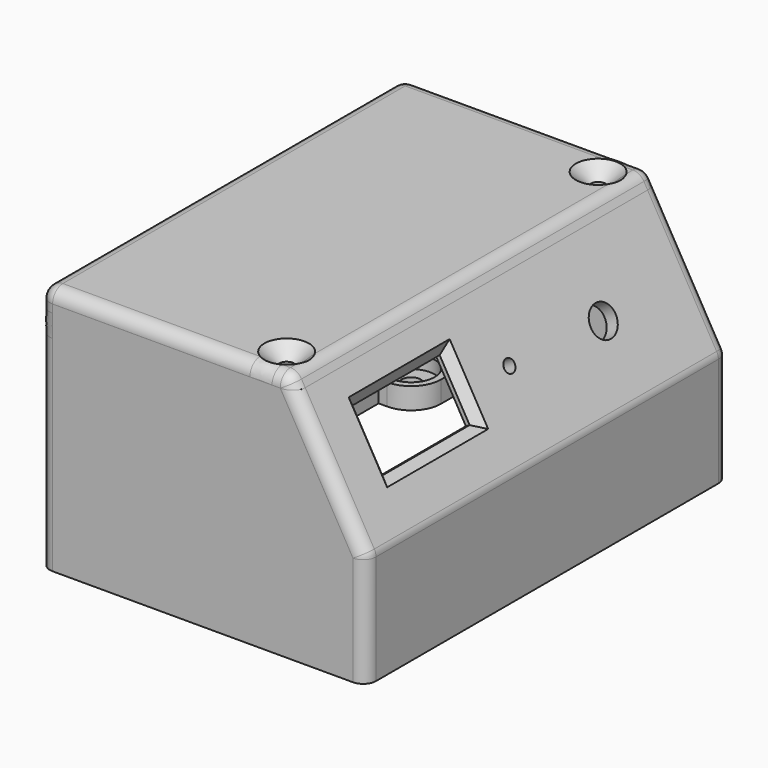
from build123d import *

# Parameters (mm, degrees)
SKETCH_W             = 73.2
SKETCH_H             = 55
PAD_DEPTH            = 53
SKETCH001_R          = 2.25
POCKET_DEPTH         = 55.001
SKETCH002_W          = 70.2
SKETCH002_H          = 100
POCKET001_DEPTH      = 50.001
SKETCH004_R          = 5.5
POCKET003_DEPTH      = 3
SKETCH005_W          = 7.2
SKETCH005_H          = 7.2
SKETCH005_R          = 1.5
PAD001_DEPTH         = 9
SKETCH006_R          = 1.75
PAD002_DEPTH         = 10
POCKET004_DEPTH      = 53.001
POCKET004_DEPTH_BACK = 53.001
PAD003_DEPTH         = 9
SKETCH008_R          = 1.75
POCKET005_DEPTH      = 12
FILLET_R             = 3
PAD004_DEPTH         = 53
PAD005_DEPTH         = 3
SKETCH011_R          = 3.6
SKETCH011_R_2        = 1.5
SKETCH011_W          = 14
SKETCH011_H          = 25.5
POCKET006_DEPTH      = 17.3215080757
SKETCH012_R          = 1.5
PAD006_DEPTH         = 2
FILLET001_R          = 2.99
CHAMFER_SIZE         = 2
PAD007_DEPTH         = 53
SKETCH014_R          = 1.75
POCKET007_DEPTH      = 3.001
POCKET007_DEPTH_BACK = 55.001
SKETCH015_R          = 1.75
POCKET008_DEPTH      = 3.001
CHAMFER001_SIZE2     = 2.99
CHAMFER001_SIZE      = 3.45
CHAMFER002_SIZE2     = 2.99
CHAMFER002_SIZE      = 3.45
FILLET002_R          = 2.99
SKETCH016_W          = 70
SKETCH016_H          = 18
POCKET009_DEPTH      = 3.0010001
SKETCH017_W          = 8
SKETCH017_H          = 25
SKETCH017_R          = 1.75
PAD008_DEPTH         = 9.5
POCKET010_DEPTH      = 1.5


with BuildPart() as body:
    # Sketch → Pad (new body, symmetric)
    with BuildSketch(Plane.XZ):
        with Locations((36.6, 27.5)):
            Rectangle(SKETCH_W, SKETCH_H)
    extrude(amount=PAD_DEPTH, both=True)

    # Sketch001 → Pocket (cut, through all)
    with BuildSketch(Plane.XY):
        with Locations((7, 43)):
            Circle(SKETCH001_R)
        with Locations((57.2, 43)):
            Circle(SKETCH001_R)
        with Locations((57.2, -43)):
            Circle(SKETCH001_R)
        with Locations((7, -43)):
            Circle(SKETCH001_R)
        with BuildLine():
            Line((5, 36), (7, 36))
            ThreePointArc((7, 36), (11.9497474683, 38.0502525317), (14, 43))
            Line((14, 43), (14, 50))
            Line((14, 50), (50.2, 50))
            Line((50.2, 50), (50.2, 43))
            ThreePointArc((50.2, 43), (52.2502525317, 38.0502525317), (57.2, 36))
            Line((57.2, 36), (70.2, 36))
            Line((70.2, 36), (70.2, -36))
            Line((70.2, -36), (57.2, -36))
            ThreePointArc((57.2, -36), (52.2502525317, -38.0502525317), (50.2, -43))
            Line((50.2, -43), (50.2, -50))
            Line((50.2, -50), (14, -50))
            Line((14, -50), (14, -43))
            ThreePointArc((14, -43), (11.9497474683, -38.0502525317), (7, -36))
            Line((7, -36), (5, -36))
            Line((5, -36), (5, 36))
        make_face()
    extrude(amount=POCKET_DEPTH, mode=Mode.SUBTRACT)

    # Sketch002 → Pocket001 (cut, through all)
    with BuildSketch(Plane.XY.offset(5)):
        with Locations((35.1, 0)):
            Rectangle(SKETCH002_W, SKETCH002_H)
    extrude(amount=POCKET001_DEPTH, mode=Mode.SUBTRACT)

    # Sketch004 → Pocket003 (cut)
    with BuildSketch(Plane.XY.offset(5)):
        with Locations((57.2, 43)):
            Circle(SKETCH004_R)
        with Locations((7, -43)):
            Circle(SKETCH004_R)
        with Locations((57.2, -43)):
            Circle(SKETCH004_R)
        with Locations((7, 43)):
            Circle(SKETCH004_R)
    extrude(amount=-POCKET003_DEPTH, mode=Mode.SUBTRACT)

    # Sketch005 → Pad001 (join)
    with BuildSketch(Plane.XY):
        with Locations((66.6, 46.4)):
            Rectangle(SKETCH005_W, SKETCH005_H)
        with Locations((66.6, 46.4)):
            Circle(SKETCH005_R, mode=Mode.SUBTRACT)
        with Locations((23.6, 46.4)):
            Rectangle(SKETCH005_W, SKETCH005_H)
        with Locations((23.6, 46.4)):
            Circle(SKETCH005_R, mode=Mode.SUBTRACT)
        with Locations((23.6, -46.4)):
            Rectangle(SKETCH005_W, SKETCH005_H)
        with Locations((23.6, -46.4)):
            Circle(SKETCH005_R, mode=Mode.SUBTRACT)
        with Locations((66.6, -46.4)):
            Rectangle(SKETCH005_W, SKETCH005_H)
        with Locations((66.6, -46.4)):
            Circle(SKETCH005_R, mode=Mode.SUBTRACT)
    extrude(amount=PAD001_DEPTH)

    # Sketch006 → Pad002 (join)
    with BuildSketch(Plane.YZ.offset(10)):
        Polygon((-50, 55), (-41, 55), (-41, 46), (-50, 30.4115427319), align=None)
        with Locations((-45.5, 50.5)):
            Circle(SKETCH006_R, mode=Mode.SUBTRACT)
        Polygon((41, 55), (50, 55), (50, 30.4115427319), (41, 46), align=None)
        with Locations((45.5, 50.5)):
            Circle(SKETCH006_R, mode=Mode.SUBTRACT)
    extrude(amount=PAD002_DEPTH)

    # Sketch003 → Pocket004 (cut, two sides)
    with BuildSketch(Plane.XZ) as pocket004_sk:
        Polygon((53.2, 55), (73.2, 55), (73.2, 25.5551362713), (70.2, 25.5551362713), align=None)
    extrude(amount=-POCKET004_DEPTH, mode=Mode.SUBTRACT)
    extrude(pocket004_sk.sketch, amount=POCKET004_DEPTH_BACK, mode=Mode.SUBTRACT)

    # Sketch007 → Pad003 (join)
    with BuildSketch(Plane.YZ.offset(53.2)):
        Polygon((-50, 55), (-41, 55), (-41, 45), (-50, 29.4115427324), align=None)
        Polygon((41, 55), (50, 55), (50, 29.4115427324), (41, 45), align=None)
    extrude(amount=-PAD003_DEPTH)

    # Sketch008 → Pocket005 (cut)
    with BuildSketch(Plane.XY.offset(55)):
        with Locations((48.7, 45.5)):
            Circle(SKETCH008_R)
        with Locations((48.7, -45.5)):
            Circle(SKETCH008_R)
    extrude(amount=-POCKET005_DEPTH, mode=Mode.SUBTRACT)

    # Fillet
    fillet_edges = [body.edges().sort_by_distance(p)[0] for p in [
        (73.2, -53, 12.777568),
        (73.2, 53, 12.777568),
    ]]
    fillet(fillet_edges, radius=FILLET_R)


with BuildPart() as body001:
    # Sketch009 → Pad004 (new body, symmetric)
    with BuildSketch(Plane.XZ):
        with BuildLine():
            Line((56.6641016151, 55), (72.7980762114, 27.0551362713))
            ThreePointArc((73.2, 25.5551362713), (73.0977774789, 26.3315934066), (72.7980762114, 27.0551362713))
            Line((70.2, 25.5551362713), (73.2, 25.5551362713))
            Line((53.2, 55), (70.2, 25.5551362713))
            Line((53.2, 55), (56.6641016151, 55))
        make_face()
    extrude(amount=PAD004_DEPTH, both=True)

    # Sketch010 → Pad005 (join)
    with BuildSketch(Plane(origin=(63.7156986041, 0, 36.7862757407), x_dir=(0.5, 0, -0.8660254038), z_dir=(-0.8660254038, 0, -0.5))):
        Polygon((-2.0313972081, 49.9), (12.9686027919, 49.9), (12.9686027919, -49.9), (-2.0313972081, -49.9), (-2.0313972081, -47.9), (10.9686027919, -47.9), (10.9686027919, 47.9), (-2.0313972081, 47.9), align=None)
    extrude(amount=PAD005_DEPTH)

    # Sketch011 (on Face6 of Pad005) → Pocket006 (cut, through all)
    with BuildSketch(Plane(origin=(63.7156986041, 0, 36.7862757407), x_dir=(0.5, 0, -0.8660254038), z_dir=(-0.8660254038, 0, -0.5))):
        with Locations((-2.4153718044, -26.5)):
            Circle(SKETCH011_R)
        with Locations((-3.892631, 0)):
            Circle(SKETCH011_R_2)
        with Locations((-4.732658, 26.05724)):
            Rectangle(SKETCH011_W, SKETCH011_H)
    extrude(amount=-POCKET006_DEPTH, mode=Mode.SUBTRACT)

    # Sketch012 (on Face12 of Pocket006) → Pad006 (join)
    with BuildSketch(Plane(origin=(63.7156986041, 0, 36.7862757407), x_dir=(0.5, 0, -0.8660254038), z_dir=(-0.8660254038, 0, -0.5))):
        with BuildLine():
            Line((-21.0313972081, 40.5), (-12.862658, 40.5))
            Line((-12.862658, 40.5), (-12.862658, 36.55724))
            ThreePointArc((-14.862658, 34.55724), (-13.4484444376, 35.1430264376), (-12.862658, 36.55724))
            Line((-14.862658, 34.55724), (-21.0313972081, 34.55724))
            Line((-21.0313972081, 34.55724), (-21.0313972081, 40.5))
        make_face()
        with Locations((-14.862658, 36.55724)):
            Circle(SKETCH012_R, mode=Mode.SUBTRACT)
        with BuildLine():
            Line((6.137342, 40.3780499579), (10.947902, 40.3780499579))
            Line((10.947902, 40.3780499579), (10.947902, 34.55724))
            Line((10.947902, 34.55724), (8.137342, 34.55724))
            ThreePointArc((6.137342, 36.55724), (6.7231284376, 35.1430264376), (8.137342, 34.55724))
            Line((6.137342, 36.55724), (6.137342, 40.3780499579))
        make_face()
        with Locations((8.137342, 36.55724)):
            Circle(SKETCH012_R, mode=Mode.SUBTRACT)
        with BuildLine():
            Line((-21.0313972081, 17.55724), (-14.862658, 17.55724))
            ThreePointArc((-12.862658, 15.55724), (-13.4484444376, 16.9714535624), (-14.862658, 17.55724))
            Line((-12.862658, 15.55724), (-12.862658, 11.61448))
            Line((-12.862658, 11.61448), (-21.0313972081, 11.61448))
            Line((-21.0313972081, 11.61448), (-21.0313972081, 17.55724))
        make_face()
        with Locations((-14.862658, 15.55724)):
            Circle(SKETCH012_R, mode=Mode.SUBTRACT)
        with BuildLine():
            Line((8.137342, 17.55724), (10.947902, 17.55724))
            Line((10.947902, 17.55724), (10.947902, 11.7364300421))
            Line((10.947902, 11.7364300421), (6.137342, 11.7364300421))
            Line((6.137342, 11.7364300421), (6.137342, 15.55724))
            ThreePointArc((8.137342, 17.55724), (6.7231284376, 16.9714535624), (6.137342, 15.55724))
        make_face()
        with Locations((8.137342, 15.55724)):
            Circle(SKETCH012_R, mode=Mode.SUBTRACT)
    extrude(amount=PAD006_DEPTH)

    # Fillet001
    fillet001_edges = [body001.edges().sort_by_distance(p)[0] for p in [
        (64.731089, -53, 41.027568),
        (64.731089, 53, 41.027568),
    ]]
    fillet(fillet001_edges, radius=FILLET001_R)

    # Chamfer
    chamfer_edges = [body001.edges().sort_by_distance(p)[0] for p in [
        (67.447446, -26.05724, 36.3227),
        (63.947446, -38.80724, 42.384878),
        (60.447446, -26.05724, 48.447056),
        (63.947446, -13.30724, 42.384878),
    ]]
    chamfer(chamfer_edges, length=CHAMFER_SIZE)


with BuildPart() as body002:
    # Sketch013 → Pad007 (new body, symmetric)
    with BuildSketch(Plane.XZ):
        with BuildLine():
            Line((0, 0), (0, 55))
            Line((0, 55), (56.6641016151, 55))
            Line((56.6641016151, 55), (55.7980679895, 56.5000142406))
            ThreePointArc((55.7980679895, 56.5000142406), (54.6999936079, 57.5980799018), (53.2000016816, 58))
            Line((53.2000016816, 58), (0, 58))
            ThreePointArc((0, 58), (-2.1213203436, 57.1213203436), (-3, 55))
            Line((-3, 55), (-3, 0))
            Line((-3, 0), (0, 0))
        make_face()
    extrude(amount=PAD007_DEPTH, both=True)

    # Sketch014 → Pocket007 (cut, two sides)
    with BuildSketch(Plane.XY.offset(55)) as pocket007_sk:
        with Locations((48.7, 45.5)):
            Circle(SKETCH014_R)
        with Locations((48.7, -45.5)):
            Circle(SKETCH014_R)
    extrude(amount=POCKET007_DEPTH, mode=Mode.SUBTRACT)
    extrude(pocket007_sk.sketch, amount=-POCKET007_DEPTH_BACK, mode=Mode.SUBTRACT)

    # Sketch015 → Pocket008 (cut, through all)
    with BuildSketch(Plane.YZ):
        with Locations((45.5, 50.5)):
            Circle(SKETCH015_R)
        with Locations((-45.5, 50.5)):
            Circle(SKETCH015_R)
    extrude(amount=-POCKET008_DEPTH, mode=Mode.SUBTRACT)

    # Chamfer001
    chamfer001_edges = [body002.edges().sort_by_distance(p)[0] for p in [
        (46.95, -45.5, 58),
        (46.95, 45.5, 58),
    ]]
    chamfer001_side = body002.faces().sort_by_distance((26.524332, 0, 58))[0]
    chamfer(chamfer001_edges, length=CHAMFER001_SIZE, length2=CHAMFER001_SIZE2, reference=chamfer001_side)

    # Chamfer002
    chamfer002_edges = [body002.edges().sort_by_distance(p)[0] for p in [
        (-3, -47.25, 50.5),
        (-3, 43.75, 50.5),
    ]]
    chamfer002_side = body002.faces().sort_by_distance((-3, 0, 27.423836))[0]
    chamfer(chamfer002_edges, length=CHAMFER002_SIZE, length2=CHAMFER002_SIZE2, reference=chamfer002_side)

    # Fillet002
    fillet002_edges = [body002.edges().sort_by_distance(p)[0] for p in [
        (-3, -53, 27.5),
        (-3, 53, 27.5),
    ]]
    fillet(fillet002_edges, radius=FILLET002_R)

    # Sketch016 → Pocket009 (cut, through all)
    with BuildSketch(Plane.YZ):
        with Locations((0, 9)):
            Rectangle(SKETCH016_W, SKETCH016_H)
    extrude(amount=-POCKET009_DEPTH, mode=Mode.SUBTRACT)

    # Sketch017 → Pad008 (join)
    with BuildSketch(Plane.YZ):
        with Locations((-45.85, 42.5)):
            Rectangle(SKETCH017_W, SKETCH017_H)
        with Locations((-45.5, 50.5)):
            Circle(SKETCH017_R, mode=Mode.SUBTRACT)
        with Locations((45.85, 42.5)):
            Rectangle(SKETCH017_W, SKETCH017_H)
        with Locations((45.5, 50.5)):
            Circle(SKETCH017_R, mode=Mode.SUBTRACT)
    extrude(amount=PAD008_DEPTH)

    # Clone2D → Pocket010 (cut)
    with BuildSketch(Plane(origin=(37, -40, 55), x_dir=(0, 1, 0), z_dir=(0, 0, 1))):
        with BuildLine():
            Line((7.2402359687, 8.2568583813), (5.6530567973, 8.2568583813))
            Line((5.6530567973, 8.2568583813), (5.6530567973, 4.1311853557))
            ThreePointArc((5.6530567973, 4.1311853557), (12.9507061239, 9.6117526126), (7.4641625534, 16.9049098712))
            Line((7.4641625534, 16.9049098712), (4.4865307646, 16.9049098712))
            Line((4.4865307646, 16.9049098712), (0.1642260935, 12.8649098712))
            Line((0.1642260935, 12.8649098712), (0.1642260935, 0))
            Line((0.1642260935, 0), (4.6476736, 0))
            Line((4.6476736, 0), (4.6476736, 12.8125540893))
            Line((4.6476736, 12.8125540893), (7.110620424, 12.8125540893))
            ThreePointArc((7.110620424, 12.8125540893), (8.9223643244, 10.5844088696), (7.2402359687, 8.2568583813))
        make_face()
        with BuildLine():
            add(Edge.make_bspline(
                [(53.843118529, 12.7727964143), (49.6786472, 12.9535872), (47.1798616, 9.46592), (48.0899936, 5.897188), (50.4694088, 4.1364216), (53.89082, 4.104588)],
                knots=[0, 0, 0, 0, 0.3333333333, 0.6666666667, 1, 1, 1, 1], degree=3))
            Line((53.89082, 4.104588), (53.89082, 0))
            Line((53.89082, 0), (51.2947632, 0))
            add(Edge.make_bspline(
                [(52.52688, 16.8127964143), (47.7995392, 16.4228408), (43.8035432, 12.9324888), (42.9152256, 7.6184504), (44.47612, 3.54238), (47.4534056, 0.8840904), (51.2947632, 0)],
                knots=[0, 0, 0, 0, 0.25, 0.5, 0.75, 1, 1, 1, 1], degree=3))
            Line((52.52688, 16.8127964143), (58.1654232, 16.8127964143))
            Line((58.1654232, 16.8127964143), (53.843118529, 12.7727964143))
        make_face()
        Polygon((31.1603193653, 16.8993282014), (19.6966176852, 16.8993282014), (15.3743130142, 12.8593282014), (15.3743130142, 0), (26.8056896887, 0), (26.8056896887, 4.04), (19.6300992, 4.04), (19.6300992, 6.3826104), (26.8056896887, 6.3826104), (26.8056896887, 10.4226104), (19.6300992, 10.4226104), (19.6300992, 12.8593282014), (26.8380146942, 12.8593282014), align=None)
        Polygon((34.149942444, 17.0261572857), (29.827637773, 12.9861572857), (34.3484776114, 12.9861572857), (34.3484776114, 0), (38.733011814, 0), (38.733011814, 12.9861572857), (39.8011367869, 12.9861572857), (44.1234414579, 17.0261572857), align=None)
        Polygon((61.2594015017, 16.8568695083), (56.9370968307, 12.8168695083), (61.4579366692, 12.8168695083), (61.4579366692, 0), (65.8424708717, 0), (65.8424708717, 12.8168695083), (66.9105958446, 12.8168695083), (71.2329005157, 16.8568695083), align=None)
        Polygon((70.5978870908, 12.8211084487), (74.9201917619, 16.8611084487), (74.9458432, 4.0721304), (80.0346192, 4.0721304), (80.0346192, 0), (70.5978870908, 0), align=None)
    extrude(amount=POCKET010_DEPTH, mode=Mode.SUBTRACT)


solid = Compound([body.part, body001.part, body002.part])
